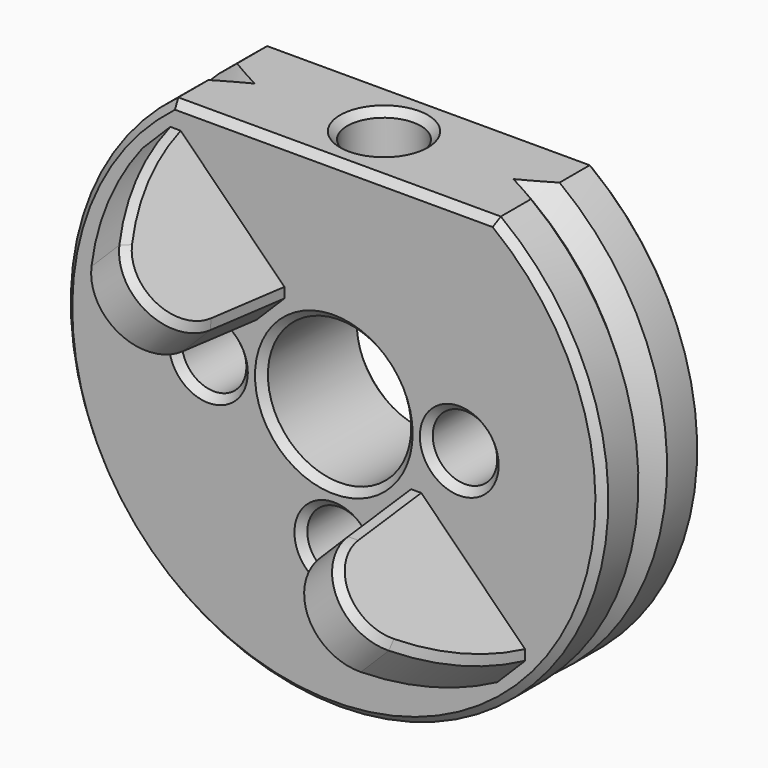
from build123d import *

# Parameters (mm, degrees)
SKETCH017_R        = 15
SKETCH017_R_2      = 4
SKETCH017_R_3      = 1.8
PAD005_DEPTH       = 7
SKETCH020_W        = 18
SKETCH020_H        = 3
POCKET010_DEPTH    = 7.001
SKETCH021_R        = 2.05
POCKET011_DEPTH    = 12.001
CHAMFER009_SIZE    = 0.4
PAD023_DEPTH       = 1.5
POLARPATTERN_COUNT = 2
FILLET020_R        = 3
CHAMFER037_SIZE    = 0.4


with BuildPart() as part:
    # Sketch017 → Pad005 (new body)
    with BuildSketch(Plane.XZ):
        Circle(SKETCH017_R)
        Circle(SKETCH017_R_2, mode=Mode.SUBTRACT)
        with Locations((-7, 0)):
            Circle(SKETCH017_R_3, mode=Mode.SUBTRACT)
        with Locations((0, -7)):
            Circle(SKETCH017_R_3, mode=Mode.SUBTRACT)
        with Locations((7, 0)):
            Circle(SKETCH017_R_3, mode=Mode.SUBTRACT)
    extrude(amount=PAD005_DEPTH)

    # Sketch018 → Groove (revolve, cut)
    with BuildSketch(Plane.XY):
        Polygon((15, -2.5), (14, -3.5), (15, -4.5), align=None)
    revolve(axis=Axis((0, 0, 0), (0, 1, 0)), mode=Mode.SUBTRACT)

    # Sketch020 → Pocket010 (cut, through all)
    with BuildSketch(Plane.XZ):
        with Locations((0, 13.5)):
            Rectangle(SKETCH020_W, SKETCH020_H)
    extrude(amount=POCKET010_DEPTH, mode=Mode.SUBTRACT)

    # Sketch021 → Pocket011 (cut, through all)
    with BuildSketch(Plane.XY):
        with Locations((0, -3.5)):
            Circle(SKETCH021_R)
    extrude(amount=POCKET011_DEPTH, mode=Mode.SUBTRACT)

    # Chamfer009
    chamfer009_edges = [part.edges().sort_by_distance(p)[0] for p in [
        (-2.05, -3.5, 12),
        (13.416408, 0, 6.708204),
        (0, 0, 12),
        (-6.708204, 0, -13.416408),
        (-8.8, 0, 0),
        (-1.8, 0, -7),
        (-4, 0, 0),
        (5.2, 0, 0),
        (13.416408, -7, 6.708204),
        (0, -7, 12),
        (-6.708204, -7, -13.416408),
        (-8.8, -7, 0),
        (-1.8, -7, -7),
        (-4, -7, 0),
        (5.2, -7, 0),
    ]]
    chamfer(chamfer009_edges, length=CHAMFER009_SIZE)

    # Sketch055 (on Plane of DatumPlane001) → Pad023 (join, symmetric)
    with BuildSketch(Plane(origin=(0, 0, 0), x_dir=(0.707107, 0, -0.707107), z_dir=(0.707107, 0, 0.707107))):
        with BuildLine():
            ThreePointArc((-14, -7), (-11.124423, -12.964434), (-5.874887, -17))
            Line((-5, -7), (-5.874887, -17))
            Line((-14, -7), (-5, -7))
        make_face()
    pad023 = extrude(amount=PAD023_DEPTH, both=True)

    # PolarPattern: Pad023 ×2 about axis
    polarpattern_axis = Axis((0, 0, 0), (0, 1, 0))
    for i in range(1, POLARPATTERN_COUNT):
        add(pad023.rotate(polarpattern_axis, i * 360 / POLARPATTERN_COUNT))

    # Fillet020
    fillet020_edges = [part.edges().sort_by_distance(p)[0] for p in [
        (-4.154172, -17, 4.154172),
        (4.154172, -17, -4.154172),
    ]]
    fillet(fillet020_edges, radius=FILLET020_R)

    # Chamfer037
    chamfer037_edges = [part.edges().sort_by_distance(p)[0] for p in [
        (2.62296, -9.39375, -4.744281),
        (4.744281, -9.39375, -2.62296),
        (-4.744281, -9.39375, 2.62296),
        (-2.62296, -9.39375, 4.744281),
    ]]
    chamfer(chamfer037_edges, length=CHAMFER037_SIZE)


solid = part.part
